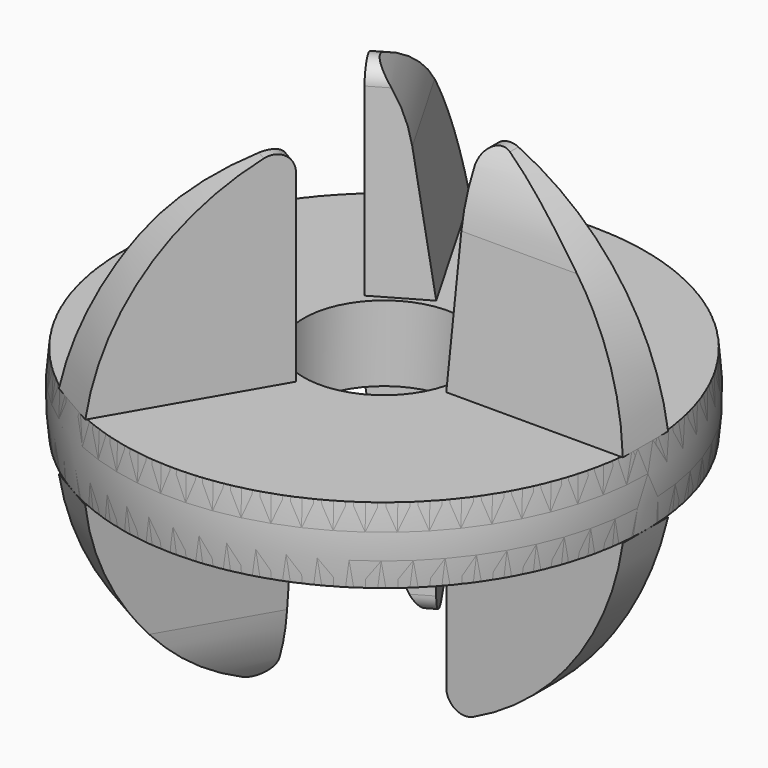
from build123d import *

# Parameters (mm, degrees)
F2_DEPTH = 38.1
F4_DEPTH = 355.601
F5_COUNT = 3


with BuildPart() as f1:
    # F0 (on Front) → F1 (revolve)
    with BuildSketch(Plane.XZ):
        with BuildLine():
            Line((107.95, 273.7921623305), (114.3, 273.7921623305))
            Line((114.3, 273.7921623305), (351.952724098, 273.7921623305))
            ThreePointArc((351.952724098, 273.7921623305), (355.6, 324.5921623305), (351.952724098, 375.3921623305))
            Line((351.952724098, 375.3921623305), (114.3, 375.3921623305))
            Line((114.3, 375.3921623305), (107.95, 375.3921623305))
            Line((107.95, 375.3921623305), (107.95, 273.7921623305))
        make_face()
    revolve(axis=Axis((0, 0, 359.9156904304), (0, 0, 1)))

    # F0 (on Front) → F2 (join, symmetric)
    with BuildSketch(Plane.XZ):
        with BuildLine():
            Line((114.3, 375.3921623305), (351.952724098, 375.3921623305))
            ThreePointArc((351.952724098, 375.3921623305), (285.5111039159, 536.5703912615), (150.4461538462, 646.7991063787))
            ThreePointArc((150.4461538462, 646.7991063787), (126.0580116495, 645.2099204251), (114.3, 623.784324661))
            Line((114.3, 623.784324661), (114.3, 375.3921623305))
        make_face()
        with BuildLine():
            Line((114.3, 273.7921623305), (114.3, 25.4))
            ThreePointArc((114.3, 25.4), (126.0580116495, 3.9744042359), (150.4461538462, 2.3852182823))
            ThreePointArc((150.4461538462, 2.3852182823), (285.5111039159, 112.6139333995), (351.952724098, 273.7921623305))
            Line((351.952724098, 273.7921623305), (114.3, 273.7921623305))
        make_face()
    extrude(amount=F2_DEPTH, both=True)

    # F3 (on Right) → F4 (cut, through all)
    with BuildSketch(Plane.YZ):
        with BuildLine():
            Line((-38.1, 375.3921623305), (-12.7070856239, 556.0721364456))
            ThreePointArc((-12.7070856239, 556.0721364456), (47.3762263313, 673.9769003291), (167.3178417889, 729.8834885218))
            Line((167.3178417889, 729.8834885218), (-89.4509330392, 729.8834885218))
            Line((-89.4509330392, 729.8834885218), (-89.4509330392, 375.3921623305))
            Line((-89.4509330392, 375.3921623305), (-38.1, 375.3921623305))
        make_face()
        with BuildLine():
            Line((121.2579924358, -81.8078376695), (121.2579924358, 273.7921623305))
            Line((121.2579924358, 273.7921623305), (38.1, 273.7921623305))
            Line((38.1, 273.7921623305), (12.7070856239, 93.1121882154))
            ThreePointArc((12.7070856239, 93.1121882154), (-55.2041912536, -31.9648243708), (-188.5153859444, -81.8078376695))
            Line((-188.5153859444, -81.8078376695), (121.2579924358, -81.8078376695))
        make_face()
    extrude(amount=F4_DEPTH, mode=Mode.SUBTRACT)


with BuildPart() as f5_1:
    # F5: instance of F1
    add(f1.part.rotate(Axis((0, 0, 359.9156904304), (0, 0, 1)), 1 * 360 / F5_COUNT))


with BuildPart() as f5_2:
    # F5: instance of F1
    add(f1.part.rotate(Axis((0, 0, 359.9156904304), (0, 0, 1)), 2 * 360 / F5_COUNT))


solid = Compound([f1.part, f5_1.part, f5_2.part])
